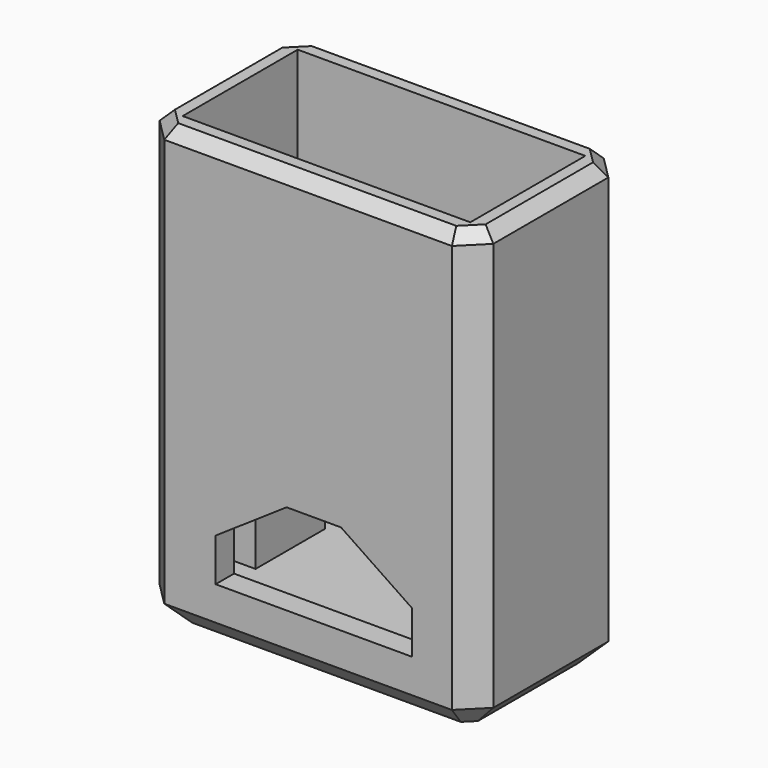
from build123d import *

# Parameters (mm, degrees)
F0_W      = 29
F0_H      = 16.5
F1_DEPTH  = 38.5
F2_T      = -2
F3_DEPTH  = 2.25
F4_SIZE   = 2
F5_SIZE   = 2
F6_SIZE   = 1
F8_DEPTH  = 16.501
F9_W      = 7.54
F9_H      = 7.25
F9_R      = 1.1
F10_DEPTH = 6.35
F11_W     = 5.398
F11_H     = 5.533
F13_W     = 5.538
F13_H     = 4.583


with BuildPart() as f1:
    # F0 (on Top) → F1 (new body)
    with BuildSketch(Plane.XY):
        with Locations((14.5, 8.25)):
            Rectangle(F0_W, F0_H)
    extrude(amount=F1_DEPTH)

    # F2
    f2_openings = [f1.faces().sort_by_distance(p)[0] for p in [
        (14.5, 8.25, 38.5),
    ]]
    offset(amount=F2_T, openings=f2_openings)

    # F3 (add): a face of the model
    f3_faces = [f1.faces().sort_by_distance(p)[0] for p in [
        (14.5, 8.25, 2),
    ]]
    extrude(f3_faces, amount=F3_DEPTH)

    # F4
    f4_edges = [f1.edges().sort_by_distance(p)[0] for p in [
        (0, 0, 19.25),
        (0, 16.5, 19.25),
        (29, 16.5, 19.25),
        (29, 0, 19.25),
    ]]
    chamfer(f4_edges, length=F4_SIZE)

    # F5
    f5_edges = [f1.edges().sort_by_distance(p)[0] for p in [
        (0, 8.25, 0),
        (1, 15.5, 0),
        (1, 1, 0),
        (14.5, 16.5, 0),
        (14.5, 0, 0),
        (28, 15.5, 0),
        (28, 1, 0),
        (29, 8.25, 0),
    ]]
    chamfer(f5_edges, length=F5_SIZE)

    # F6
    f6_edges = [f1.edges().sort_by_distance(p)[0] for p in [
        (14.5, 0, 38.5),
        (28, 1, 38.5),
        (29, 8.25, 38.5),
        (28, 15.5, 38.5),
        (14.5, 16.5, 38.5),
        (1, 15.5, 38.5),
        (0, 8.25, 38.5),
        (1, 1, 38.5),
    ]]
    chamfer(f6_edges, length=F6_SIZE)

    # F7 (on face) → F8 (cut, through all)
    with BuildSketch(Plane(origin=(0, 16.5, 0), x_dir=(-1, 0, 0), z_dir=(0, 1, 0))):
        Polygon((-23.536, 8.664), (-23.536, 4.94), (-6.464, 4.94), (-6.464, 8.664), (-12.635, 12.834), (-17.365, 12.834), align=None)
    extrude(amount=-F8_DEPTH, mode=Mode.SUBTRACT)

    # F9 (on Right) → F10 (join)
    with BuildSketch(Plane.YZ):
        with Locations((8.25, 7.875)):
            Rectangle(F9_W, F9_H)
        with Locations((8.25, 9)):
            Circle(F9_R, mode=Mode.SUBTRACT)
    extrude(amount=F10_DEPTH)

    # F11 (on Right) → F14 section 0
    with BuildSketch(Plane.YZ):
        with Locations((8.32, 8.0385)):
            Rectangle(F11_W, F11_H)
    # F13 (on offset) → F14 section 1
    with BuildSketch(Plane(origin=(4.45, 0, 0), x_dir=(0, -1, 0), z_dir=(-1, 0, 0))):
        with Locations((-8.25, 8.5135)):
            Rectangle(F13_W, F13_H)
    loft(mode=Mode.SUBTRACT)


solid = f1.part
